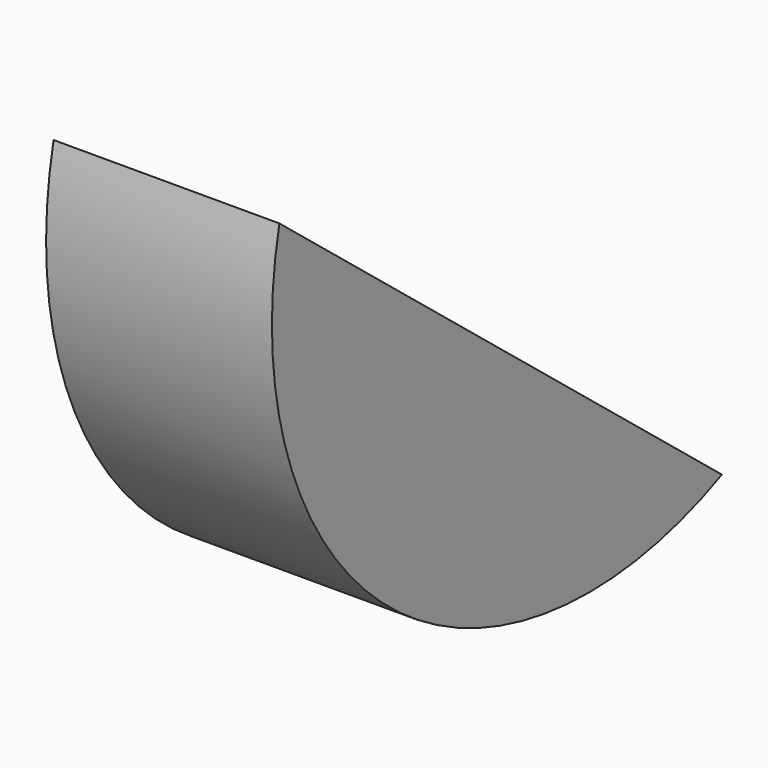
from build123d import *

# Parameters (mm, degrees)
F0_W     = 127
F0_H     = 127
F1_DEPTH = 115.57
F3_DEPTH = 25.4


with BuildPart() as f1:
    # F0 (on Front) → F1 (new body)
    with BuildSketch(Plane.XZ):
        Rectangle(F0_W, F0_H)
    extrude(amount=F1_DEPTH)

    # F2 (on face) → F3 (intersect)
    with BuildSketch(Plane.YZ.offset(63.5)):
        with BuildLine():
            Line((-43.791313, 0), (-106.008559, 50.164089))
            ThreePointArc((-106.008559, 50.164089), (-90.447394, 5.798926), (-43.791313, 0))
        make_face()
    extrude(amount=-F3_DEPTH, mode=Mode.INTERSECT)


solid = f1.part
